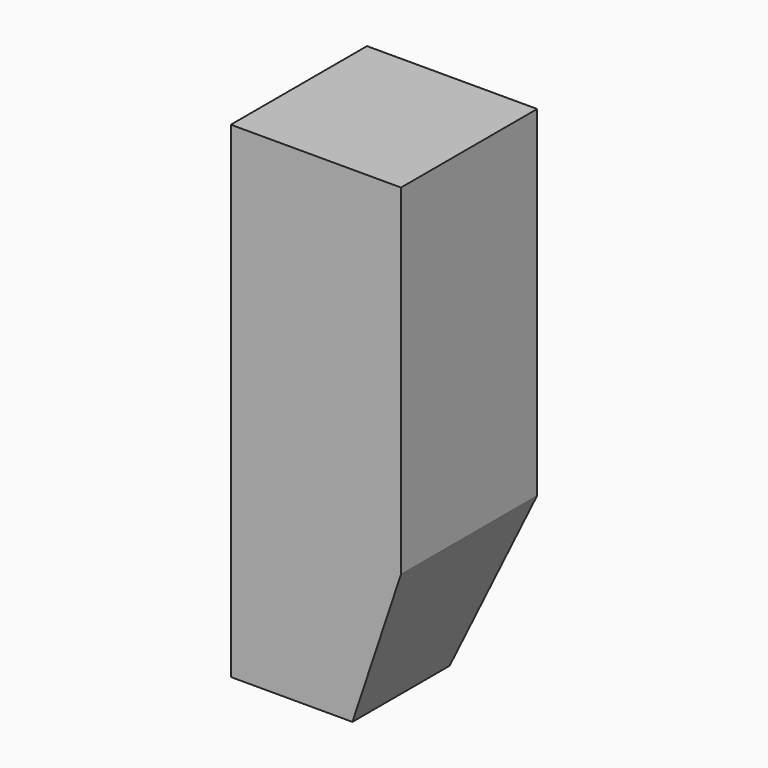
from build123d import *

# Parameters (mm, degrees)
F0_W     = 44.45
F0_H     = 44.45
F1_DEPTH = 254
F2_SIZE2 = 76.2
F2_SIZE  = 25.4
F3_SIZE2 = 76.2
F3_SIZE  = 25.4


with BuildPart() as f1:
    # F0 (on Top) → F1 (new body)
    with BuildSketch(Plane.XY):
        with Locations((-22.225, 22.225)):
            Rectangle(F0_W, F0_H)
        with Locations((22.225, 22.225)):
            Rectangle(F0_W, F0_H)
        with Locations((22.225, -22.225)):
            Rectangle(F0_W, F0_H)
        with Locations((-22.225, -22.225)):
            Rectangle(F0_W, F0_H)
    extrude(amount=F1_DEPTH)

    # F2
    f2_edges = [f1.edges().sort_by_distance(p)[0] for p in [
        (44.45, 0, 0),
    ]]
    f2_side = f1.faces().sort_by_distance((0, 0, 0))[0]
    chamfer(f2_edges, length=F2_SIZE, length2=F2_SIZE2, reference=f2_side)

    # F3
    f3_edges = [f1.edges().sort_by_distance(p)[0] for p in [
        (-12.7, 44.45, 0),
    ]]
    f3_side = f1.faces().sort_by_distance((-12.7, 0, 0))[0]
    chamfer(f3_edges, length=F3_SIZE, length2=F3_SIZE2, reference=f3_side)


solid = f1.part
